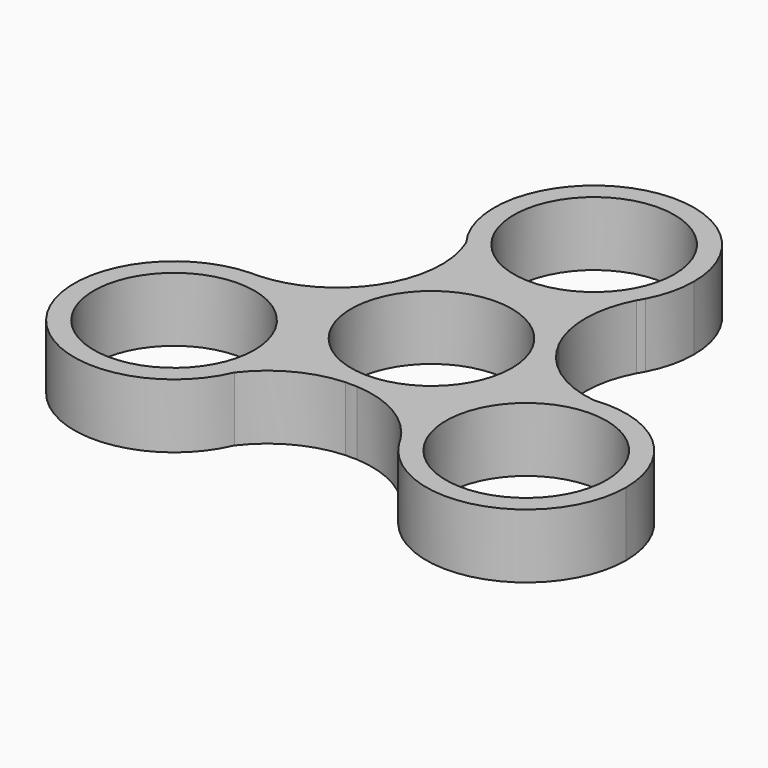
from build123d import *

# Parameters (mm, degrees)
F0_R     = 11.25
F1_DEPTH = 9


with BuildPart() as f1:
    # F0 (on Top) → F1 (new body)
    with BuildSketch(Plane.XY):
        with BuildLine():
            ThreePointArc((0.7608400883, -13.9793105109), (10.1649338718, -9.6267398107), (14, 0))
            ThreePointArc((14, 0), (13.6288181517, 3.2023921975), (12.5349548876, 6.2349744158))
            ThreePointArc((12.5349548876, 6.2349744158), (12.110837047, 6.930523737), (11.7260179857, 7.6485621001))
            ThreePointArc((11.7260179857, 7.6485621001), (0.0535862893, 13.9998974464), (-11.6671236798, 7.73810216))
            ThreePointArc((-11.6671236798, 7.73810216), (-12.0574281413, 7.0230306753), (-12.486858074, 6.3307484108))
            ThreePointArc((-12.486858074, 6.3307484108), (-12.1510599836, -6.9535416354), (-0.8678312078, -13.9730765759))
            ThreePointArc((-0.8678312078, -13.9730765759), (-0.0534089057, -13.9535544123), (0.7608400883, -13.9793105109))
        make_face()
        Circle(F0_R, mode=Mode.SUBTRACT)
        with BuildLine():
            ThreePointArc((12.5349548876, 6.2349744158), (13.6288181517, 3.2023921975), (14, 0))
            ThreePointArc((14, 0), (10.1649338718, -9.6267398107), (0.7608400883, -13.9793105109))
            ThreePointArc((0.7608400883, -13.9793105109), (7.352091686, -15.9948371419), (12.2933676324, -20.8001193652))
            ThreePointArc((12.2933676324, -20.8001193652), (12.2592417259, -7.7393660933), (23.0177448502, -0.3340267271))
            ThreePointArc((23.0177448502, -0.3340267271), (17.0493592663, 1.7903446823), (12.5349548876, 6.2349744158))
        make_face()
        with BuildLine():
            ThreePointArc((11.7260179857, 7.6485621001), (12.110837047, 6.930523737), (12.5349548876, 6.2349744158))
            ThreePointArc((12.5349548876, 6.2349744158), (12.1510599836, 6.9535416354), (11.7260179857, 7.6485621001))
        make_face()
        with BuildLine():
            ThreePointArc((-0.8678312078, -13.9730765759), (-0.0535862893, -13.9998974464), (0.7608400883, -13.9793105109))
            ThreePointArc((0.7608400883, -13.9793105109), (-0.0534089057, -13.9535544123), (-0.8678312078, -13.9730765759))
        make_face()
        with BuildLine():
            ThreePointArc((-11.6671236798, 7.73810216), (0.0535862893, 13.9998974464), (11.7260179857, 7.6485621001))
            ThreePointArc((11.7260179857, 7.6485621001), (10.1758894553, 14.3645171298), (11.8667483176, 21.0464290365))
            ThreePointArc((11.8667483176, 21.0464290365), (0.5728671472, 14.4864978581), (-11.2195968121, 20.1009651281))
            ThreePointArc((-11.2195967939, 20.1009651416), (-10.0751636095, 13.8700059017), (-11.6671236798, 7.73810216))
        make_face()
        with BuildLine():
            ThreePointArc((38.6598761714, -14.2373862032), (33.9606869292, -3.7734042055), (23.0177448502, -0.3340267271))
            ThreePointArc((23.0177448502, -0.3340267271), (12.2592417259, -7.7393660933), (12.2933676324, -20.8001193652))
            ThreePointArc((12.2933676324, -20.8001193652), (12.5679698707, -21.254196273), (12.8259555181, -21.7179156204))
            ThreePointArc((12.8259554695, -21.7179156511), (28.5537887393, -27.6849675811), (38.6598761714, -14.2373862032))
        make_face()
        with Locations((24.6598761714, -14.2373862032)):
            Circle(F0_R, mode=Mode.SUBTRACT)
        with BuildLine():
            ThreePointArc((-11.7981480563, -19.7669384146), (-6.9741956568, -15.660350584), (-0.8678312078, -13.9730765759))
            ThreePointArc((-0.8678312078, -13.9730765759), (-12.1510599836, -6.9535416354), (-12.486858074, 6.3307484108))
            ThreePointArc((-12.486858074, 6.3307484108), (-17.5279813167, 1.6303202988), (-24.1601159998, -0.246309001))
            ThreePointArc((-24.1601159998, -0.246309001), (-14.5852387143, -4.5161887863), (-10.659876271, -14.2373861458))
            ThreePointArc((-10.659876271, -14.2373861458), (-10.9473966527, -17.0601335163), (-11.7981480879, -19.766938401))
        make_face()
        with BuildLine():
            ThreePointArc((12.8259555181, -21.7179156204), (12.5679698707, -21.254196273), (12.2933676324, -20.8001193652))
            ThreePointArc((12.2933676324, -20.8001193652), (12.550962869, -21.2640652647), (12.8259554695, -21.7179156511))
        make_face()
        with BuildLine():
            ThreePointArc((-12.486858074, 6.3307484108), (-12.0574281413, 7.0230306753), (-11.6671236798, 7.73810216))
            ThreePointArc((-11.6671236798, 7.73810216), (-12.0974736943, 7.046355811), (-12.486858074, 6.3307484108))
        make_face()
        with BuildLine():
            ThreePointArc((12.3952888855, 21.9665611167), (12.1226891672, 21.5112796549), (11.8667483176, 21.0464290365))
            ThreePointArc((11.8667483176, 21.0464290365), (12.1397394153, 21.5014856829), (12.3952888855, 21.9665611167))
        make_face()
        with BuildLine():
            ThreePointArc((-11.2195968121, 20.1009651281), (0.5728671472, 14.4864978581), (11.8667483176, 21.0464290365))
            ThreePointArc((11.8667483176, 21.0464290365), (12.1226891672, 21.5112796549), (12.3952888855, 21.9665611167))
            ThreePointArc((12.3952888855, 21.9665611167), (13.5929033763, 25.1232088629), (14, 28.474772349))
            ThreePointArc((14, 28.474772349), (-4.4116688809, 41.7615017315), (-11.2195968121, 20.1009651281))
        make_face()
        with Locations((0, 28.474772349)):
            Circle(F0_R, mode=Mode.SUBTRACT)
        with BuildLine():
            ThreePointArc((-25.2212444048, -0.2486454655), (-36.1952849813, -22.1705031804), (-11.7981480879, -19.766938401))
            ThreePointArc((-11.7981480879, -19.766938401), (-10.9473966527, -17.0601335163), (-10.659876271, -14.2373861458))
            ThreePointArc((-10.659876271, -14.2373861458), (-14.5852387143, -4.5161887863), (-24.1601159998, -0.246309001))
            ThreePointArc((-24.1601159998, -0.246309001), (-24.6906590507, -0.257083046), (-25.2212444036, -0.2486454962))
        make_face()
        with Locations((-24.659876271, -14.2373861458)):
            Circle(F0_R, mode=Mode.SUBTRACT)
        with BuildLine():
            ThreePointArc((-25.2212444036, -0.2486454962), (-24.6906590507, -0.257083046), (-24.1601159998, -0.246309001))
            ThreePointArc((-24.1601159998, -0.246309001), (-24.6907023468, -0.2374200832), (-25.2212444048, -0.2486454655))
        make_face()
    extrude(amount=F1_DEPTH)


solid = f1.part
